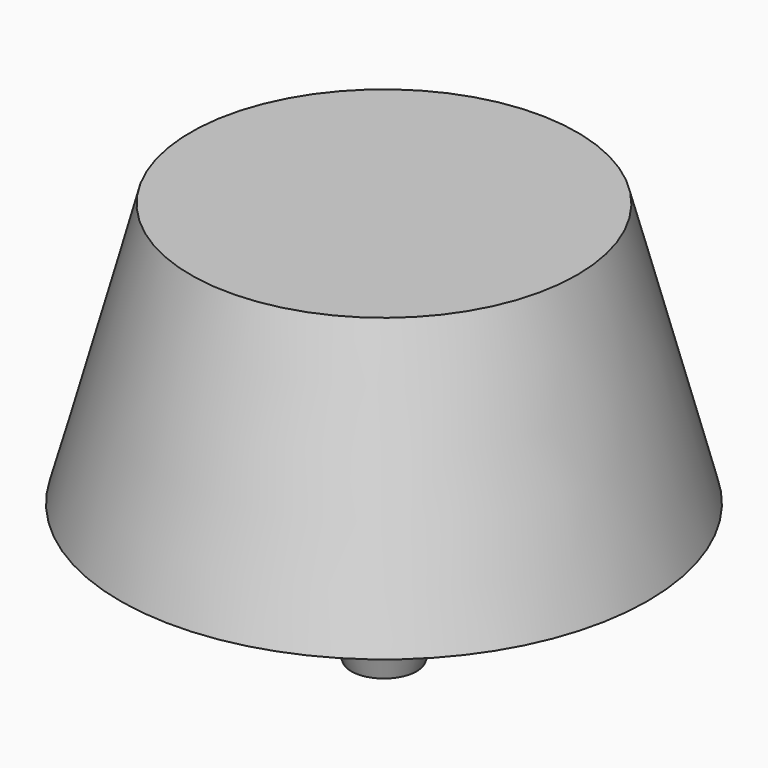
from build123d import *

# Parameters (mm, degrees)
SKETCH_R        = 25
PAD_DEPTH       = 25
PAD_TAPER       = 15
SKETCH001_R     = 21.044581
POCKET_DEPTH    = 17
POCKET_TAPER    = 15
SKETCH002_R     = 14.009915
PAD001_DEPTH    = 30
PAD001_TAPER    = 20
SKETCH003_R     = 2.189118
POCKET001_DEPTH = 20


with BuildPart() as part:
    # Sketch → Pad (new body)
    with BuildSketch(Plane.XY):
        Circle(SKETCH_R)
    extrude(amount=PAD_DEPTH, taper=PAD_TAPER)

    # Sketch001 (on Face2 of Pad) → Pocket (cut)
    with BuildSketch(Plane(origin=(0, 0, 0), x_dir=(1, 0, 0), z_dir=(0, 0, -1))):
        Circle(SKETCH001_R)
    extrude(amount=-POCKET_DEPTH, taper=POCKET_TAPER, mode=Mode.SUBTRACT)

    # Sketch002 (on Face5 of Pocket) → Pad001 (join)
    with BuildSketch(Plane(origin=(0, 0, 17), x_dir=(1, 0, 0), z_dir=(0, 0, -1))):
        Circle(SKETCH002_R)
    extrude(amount=PAD001_DEPTH, taper=PAD001_TAPER)

    # Sketch003 (on Face7 of Pad001) → Pocket001 (cut)
    with BuildSketch(Plane(origin=(0, 0, -13), x_dir=(1, 0, 0), z_dir=(0, 0, -1))):
        Circle(SKETCH003_R)
    extrude(amount=-POCKET001_DEPTH, mode=Mode.SUBTRACT)


solid = part.part
